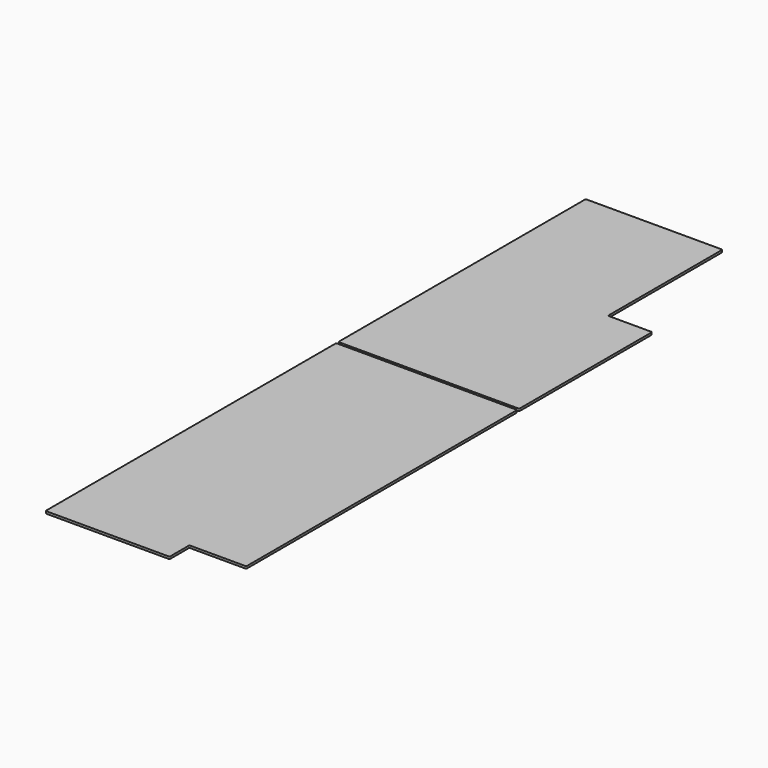
from build123d import *

# Parameters (mm, degrees)
F1_DEPTH = 6.35
F2_DEPTH = 6.35
F3_R     = 3
F3_2_R   = 3


with BuildPart() as f1:
    # F0 (on Top) → F1 (new body)
    with BuildSketch(Plane.XY):
        Polygon((-256, 80.25), (256, 80.25), (256, 550.25), (131, 550.25), (131, 955.25), (-256, 955.25), align=None)
    extrude(amount=F1_DEPTH)

    # F3#2
    f3_2_edges = [f1.edges().sort_by_distance(p)[0] for p in [
        (-256, 80.25, 3.175),
        (256, 80.25, 3.175),
        (256, 550.25, 3.175),
        (131, 955.25, 3.175),
        (131, 550.25, 3.175),
        (-256, 955.25, 3.175),
    ]]
    fillet(f3_2_edges, radius=F3_2_R)


with BuildPart() as f2:
    # F0 (on Top) → F2 (new body)
    with BuildSketch(Plane.XY):
        Polygon((-256, -955.25), (95, -955.25), (95, -885.25), (256, -885.25), (256, 72.75), (-256, 72.75), align=None)
    extrude(amount=F2_DEPTH)

    # F3
    f3_edges = [f2.edges().sort_by_distance(p)[0] for p in [
        (95, -885.25, 3.175),
        (256, -885.25, 3.175),
        (95, -955.25, 3.175),
        (-256, -955.25, 3.175),
        (256, 72.75, 3.175),
        (-256, 72.75, 3.175),
    ]]
    fillet(f3_edges, radius=F3_R)


solid = Compound([f1.part, f2.part])
